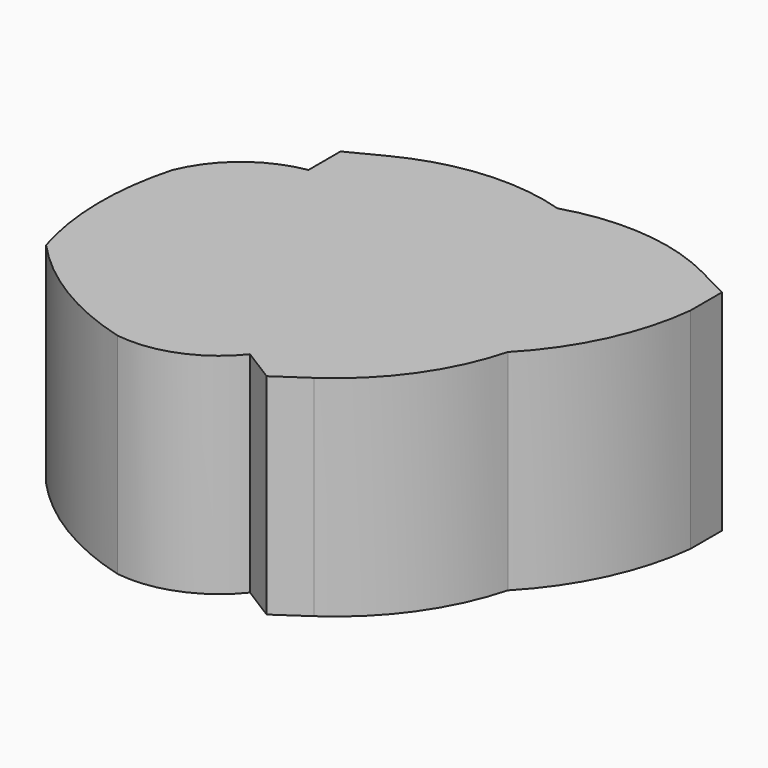
from build123d import *

# Parameters (mm, degrees)
F1_DEPTH = 13.49375


with BuildPart() as f1:
    # F0 (on Top) → F1 (new body)
    with BuildSketch(Plane.XY):
        with BuildLine():
            ThreePointArc((0, 9.117891), (-5.189841, 9.689006), (-10.209356, 8.251961))
            Line((-10.209356, 8.251961), (-12.369341, 7.146457))
            Line((-12.369341, 7.146457), (-12.369341, 4.638605))
            Line((-12.369341, 4.638605), (-12.369341, 4.568298))
            ThreePointArc((-12.369341, 4.568298), (-15.593098, 3.118565), (-17.702714, 0.282397))
            ThreePointArc((-17.702714, 0.282397), (-18.364161, -4.88906), (-17.554283, -10.039358))
            ThreePointArc((-17.554283, -10.039358), (-13.461384, -13.394124), (-8.599659, -15.484556))
            ThreePointArc((-8.599659, -15.484556), (-5.029416, -15.052354), (-2.140938, -12.909897))
            Line((-2.140938, -12.909897), (0, -14.256157))
            Line((0, -14.256157), (1.969674, -12.909897))
            ThreePointArc((1.969674, -12.909897), (5.637264, -9.298956), (7.81588, -4.635937))
            ThreePointArc((7.81588, -4.635937), (10.7633, -0.362437), (12.15602, 4.638605))
            Line((12.15602, 4.638605), (12.15602, 7.146457))
            Line((12.15602, 7.146457), (9.996034, 8.251961))
            ThreePointArc((9.996034, 8.251961), (5.082776, 9.663363), (0, 9.117891))
        make_face()
    extrude(amount=F1_DEPTH)


solid = f1.part
